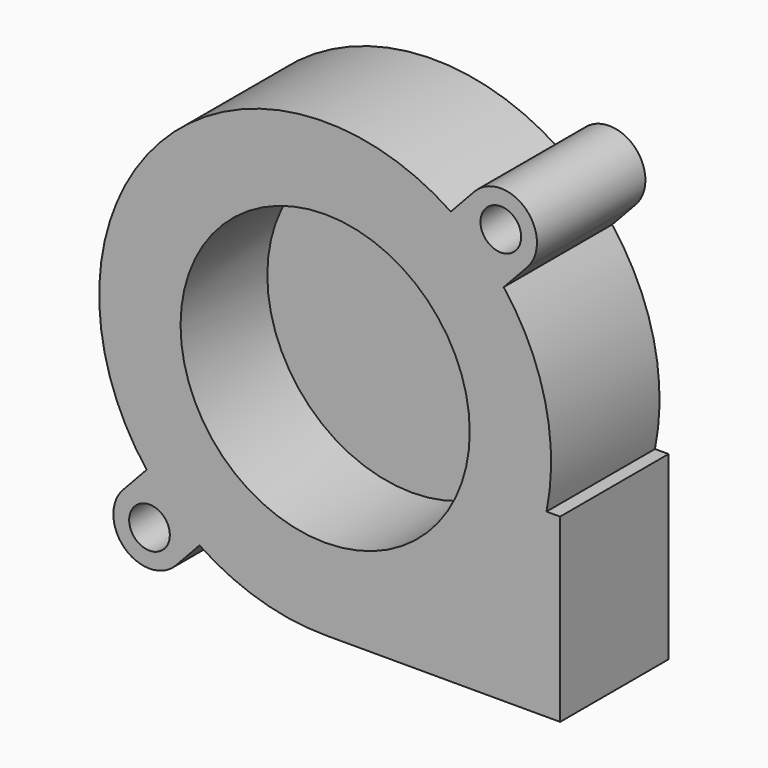
from build123d import *

# Parameters (mm, degrees)
F0_R     = 2.25
F1_DEPTH = 15
F2_R     = 16
F3_DEPTH = 12


with BuildPart() as f1:
    # F0 (on Front) → F1 (new body)
    with BuildSketch(Plane.XZ):
        with BuildLine():
            Line((26, -5), (24.494897, -5))
            ThreePointArc((24.494897, -5), (24.34662, 5.678212), (19.755719, 15.320299))
            Line((19.755719, 15.320299), (22.362368, 18.115587))
            ThreePointArc((22.362368, 18.115587), (22.164947, 23.768995), (16.511538, 23.571574))
            Line((16.511538, 23.571574), (13.90489, 20.776285))
            ThreePointArc((13.90489, 20.776285), (-18.283843, 17.049959), (-19.755719, -15.320299))
            Line((-19.755719, -15.320299), (-22.362368, -18.115587))
            ThreePointArc((-22.362368, -18.115587), (-22.164947, -23.768995), (-16.511538, -23.571574))
            Line((-16.511538, -23.571574), (-13.90489, -20.776285))
            ThreePointArc((-13.90489, -20.776285), (-7.266115, -23.920777), (0, -25))
            Line((0, -25), (26, -25))
            Line((26, -25), (26, -5))
        make_face()
        with Locations((-19.436953, -20.84358)):
            Circle(F0_R, mode=Mode.SUBTRACT)
        with Locations((19.436953, 20.84358)):
            Circle(F0_R, mode=Mode.SUBTRACT)
    extrude(amount=-F1_DEPTH)

    # F2 (on face) → F3 (cut)
    with BuildSketch(Plane.XZ):
        Circle(F2_R)
    extrude(amount=-F3_DEPTH, mode=Mode.SUBTRACT)


solid = f1.part
